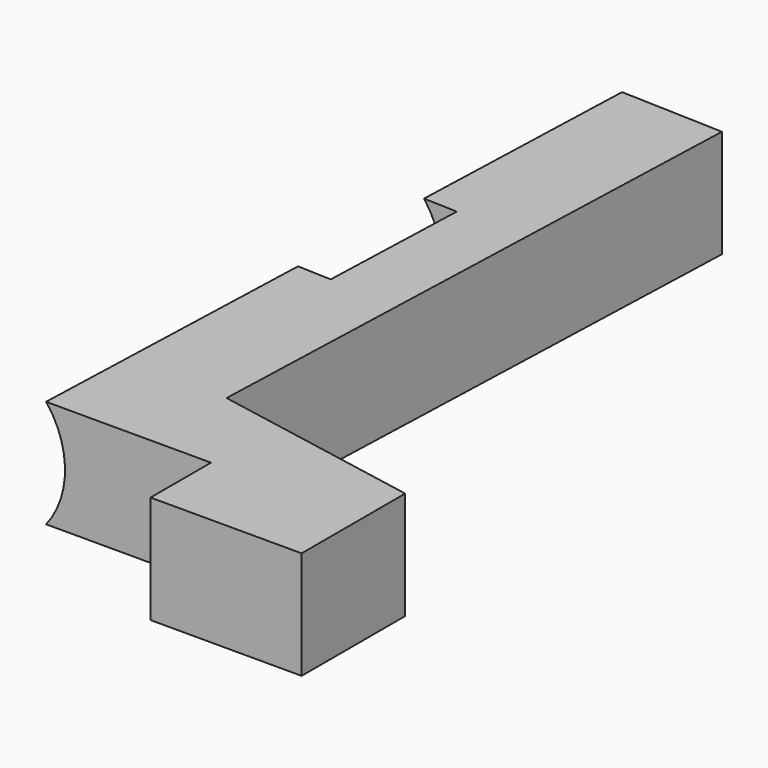
from build123d import *

# Parameters (mm, degrees)
F1_DEPTH = 2.5
F2_R     = 4
F3_DEPTH = 40


with BuildPart() as f1:
    # F0 (on Top) → F1 (new body, symmetric)
    with BuildSketch(Plane.XY):
        Polygon((8, 3.5), (8, 0), (15, 0), (15, 6), (5.2757251244, 7.8084591731), (6.235886268, 35.3038768757), (1.2389321329, 35.4783743592), (0.8550376692, 24.485075262), (2.6539411578, 24.4222561679), (2.4096446809, 17.4265203788), (0.6107411923, 17.4893394728), (0.1222226932, 3.5), align=None)
    extrude(amount=F1_DEPTH, both=True)

    # F2 (on face) → F3 (cut)
    with BuildSketch(Plane(origin=(1.2389321329, 35.4783743592, 0), x_dir=(-0.999390827, 0.0348994967, 0), z_dir=(0.0348994967, 0.999390827, 0))):
        with Locations((2.8865002096, 0)):
            Circle(F2_R)
    extrude(amount=-F3_DEPTH, mode=Mode.SUBTRACT)


solid = f1.part
